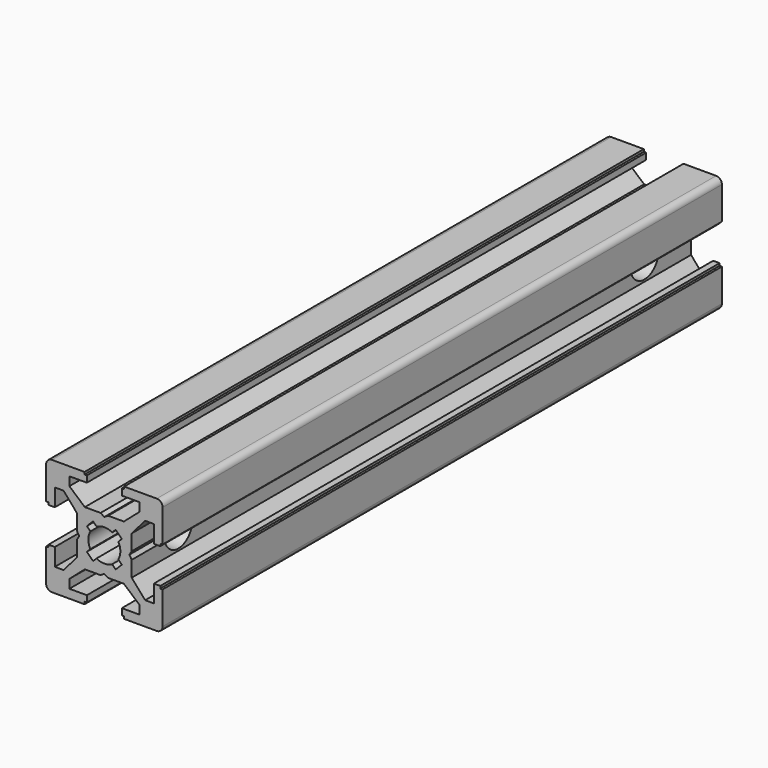
from build123d import *

# Parameters (mm, degrees)
PAD_DEPTH          = 120
POCKET_DEPTH       = 120
POLARPATTERN_COUNT = 4
POCKET001_DEPTH    = 120
SKETCH003_R        = 3
POCKET002_DEPTH    = 20
SKETCH004_R        = 5
POCKET003_DEPTH    = 3
POCKET004_DEPTH    = 3


with BuildPart() as pocket002:
    # Sketch → Pad (new body)
    with BuildSketch(Plane.XZ):
        with BuildLine():
            Line((-9, 10), (9, 10))
            ThreePointArc((10, 9), (9.707107, 9.707107), (9, 10))
            Line((10, 9), (10, -9))
            ThreePointArc((9, -10), (9.707107, -9.707107), (10, -9))
            Line((9, -10), (-9, -10))
            ThreePointArc((-10, -9), (-9.707107, -9.707107), (-9, -10))
            Line((-10, -9), (-10, 9))
            ThreePointArc((-9, 10), (-9.707107, 9.707107), (-10, 9))
        make_face()
    extrude(amount=PAD_DEPTH)

    # Sketch001 (on Face10 of Pad) → Pocket (cut)
    with BuildSketch(Plane.XZ.offset(120)):
        Polygon((-3.4, 10), (-3.4, 9.6), (-3, 9.6), (-3, 8.5), (-6, 8.5), (-6, 7), (-3.35, 4.7), (-0.65, 4.7), (0, 4.3), (0.65, 4.7), (3.35, 4.7), (6, 7), (6, 8.5), (3, 8.5), (3, 9.6), (3.4, 9.6), (3.4, 10), align=None)
    pocket = extrude(amount=-POCKET_DEPTH, mode=Mode.SUBTRACT)

    # PolarPattern: Pocket ×4 about axis
    polarpattern_axis = Axis((0, -120, 0), (0, -1, 0))
    for i in range(1, POLARPATTERN_COUNT):
        add(pocket.rotate(polarpattern_axis, i * 360 / POLARPATTERN_COUNT), mode=Mode.SUBTRACT)

    # Sketch002 (on Face4 of PolarPattern) → Pocket001 (cut)
    with BuildSketch(Plane.XZ.offset(120)):
        with BuildLine():
            ThreePointArc((1.340499, 2.401159), (0, 2.75), (-1.340499, 2.401159))
            Line((-1.944544, 3.005204), (-1.340499, 2.401159))
            Line((-3.005204, 1.944544), (-1.944544, 3.005204))
            Line((-2.401159, 1.340499), (-3.005204, 1.944544))
            ThreePointArc((-2.401159, 1.340499), (-2.75, 0), (-2.401159, -1.340499))
            Line((-3.005204, -1.944544), (-2.401159, -1.340499))
            Line((-1.944544, -3.005204), (-3.005204, -1.944544))
            Line((-1.340499, -2.401159), (-1.944544, -3.005204))
            ThreePointArc((-1.340499, -2.401159), (0, -2.75), (1.340499, -2.401159))
            Line((1.944544, -3.005204), (1.340499, -2.401159))
            Line((3.005204, -1.944544), (1.944544, -3.005204))
            Line((2.401159, -1.340499), (3.005204, -1.944544))
            ThreePointArc((2.401159, -1.340499), (2.75, 0), (2.401159, 1.340499))
            Line((2.401159, 1.340499), (3.005204, 1.944544))
            Line((3.005204, 1.944544), (1.944544, 3.005204))
            Line((1.944544, 3.005204), (1.340499, 2.401159))
        make_face()
    extrude(amount=-POCKET001_DEPTH, mode=Mode.SUBTRACT)

    # Sketch003 (on Face44 of Pocket001) → Pocket002 (cut)
    with BuildSketch(Plane(origin=(10, 0, 0), x_dir=(0, 0, 1), z_dir=(1, 0, 0))):
        with Locations((0, 10)):
            Circle(SKETCH003_R)
        with Locations((0, 110)):
            Circle(SKETCH003_R)
    extrude(amount=-POCKET002_DEPTH, mode=Mode.SUBTRACT)


with BuildPart() as pocket003:
    # Pocket003 base: copy of Pocket002
    add(pocket002.part)

    # Sketch004 (on Face37 of Pocket002) → Pocket003 (cut)
    with BuildSketch(Plane(origin=(-10, 0, 0), x_dir=(0, 0, -1), z_dir=(-1, 0, 0))):
        with Locations((0, 10)):
            Circle(SKETCH004_R)
        with Locations((0, 110)):
            Circle(SKETCH004_R)
    extrude(amount=-POCKET003_DEPTH, mode=Mode.SUBTRACT)


with BuildPart() as pocket004:
    # Pocket004 base: copy of Pocket002
    add(pocket002.part)

    # Sketch004 (on Face37 of Pocket002) → Pocket004 (cut)
    with BuildSketch(Plane(origin=(-10, 0, 0), x_dir=(0, 0, -1), z_dir=(-1, 0, 0))):
        with Locations((0, 10)):
            Circle(SKETCH004_R)
        with Locations((0, 110)):
            Circle(SKETCH004_R)
    extrude(amount=-POCKET004_DEPTH, mode=Mode.SUBTRACT)


solid = Compound([pocket003.part, pocket004.part])
